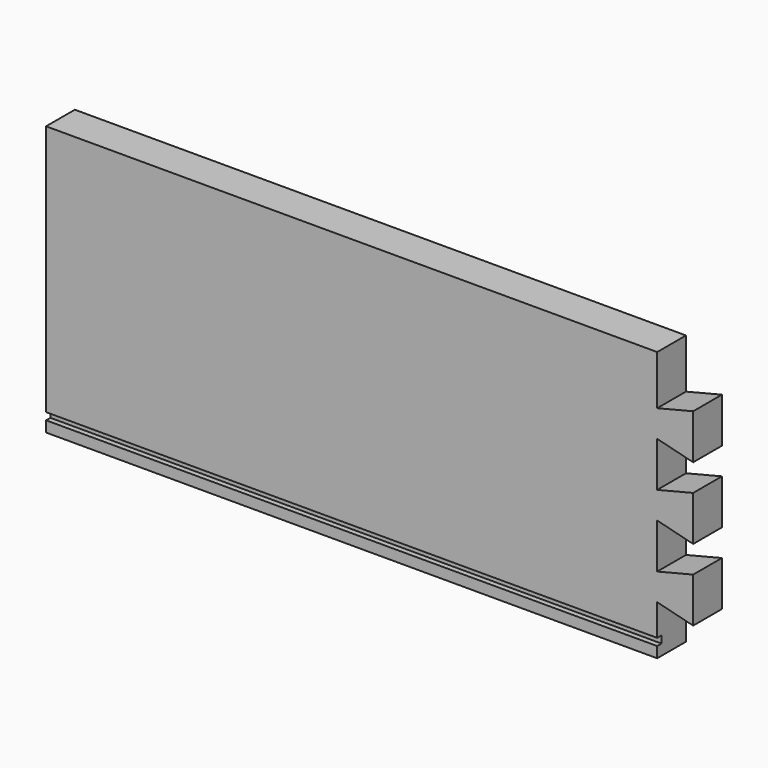
from build123d import *

# Parameters (mm, degrees)
F0_W     = 360
F0_H     = 150
F1_DEPTH = 20
F3_DEPTH = 20
F4_W     = 340
F4_H     = 4
F5_DEPTH = 3


with BuildPart() as f1:
    # F0 (on Front) → F1 (new body)
    with BuildSketch(Plane.XZ):
        with Locations((-7.764109, -54.714244)):
            Rectangle(F0_W, F0_H)
    extrude(amount=F1_DEPTH)

    # F2 (on face) → F3 (cut)
    with BuildSketch(Plane.XZ.offset(20)):
        Polygon((172.235891, -27.214244), (152.235891, -22.214244), (152.235891, -47.214244), (172.235891, -42.214244), align=None)
        Polygon((172.235891, -67.214244), (152.235891, -62.214244), (152.235891, -87.214244), (172.235891, -82.214244), align=None)
        Polygon((152.235891, -102.212298), (152.235891, -127.216189), (172.235891, -122.214244), (172.235891, -107.214244), align=None)
        Polygon((172.235891, 12.785756), (152.235891, 17.787702), (152.235891, -7.216189), (172.235891, -2.214244), align=None)
        Polygon((172.235891, 20.285756), (152.235891, 20.285756), (152.235891, 17.787702), (172.235891, 12.785756), align=None)
        Polygon((152.235891, -127.216189), (152.235891, -129.714244), (172.235891, -129.714244), (172.235891, -122.214244), align=None)
    extrude(amount=-F3_DEPTH, mode=Mode.SUBTRACT)

    # F4 (on face) → F5 (cut)
    with BuildSketch(Plane.XZ.offset(20)):
        with Locations((-17.764109, -121.714244)):
            Rectangle(F4_W, F4_H)
    extrude(amount=-F5_DEPTH, mode=Mode.SUBTRACT)


solid = f1.part
